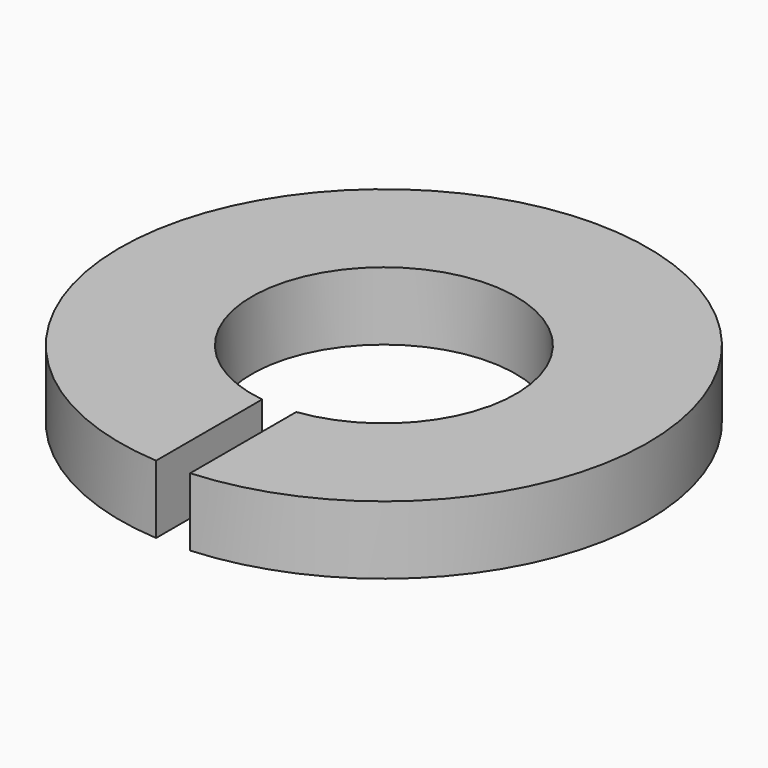
from build123d import *

# Parameters (mm, degrees)
PAD_DEPTH = 0.4


with BuildPart() as part:
    # Sketch → Pad (new body, symmetric)
    with BuildSketch(Plane.XY):
        with BuildLine():
            ThreePointArc((0.2, -1.537043), (0, 1.55), (-0.2, -1.537043))
            Line((-0.2, -3.093542), (-0.2, -1.537043))
            ThreePointArc((0.2, -3.093542), (0, 3.1), (-0.2, -3.093542))
            Line((0.2, -1.537043), (0.2, -3.093542))
        make_face()
    extrude(amount=PAD_DEPTH, both=True)


solid = part.part
